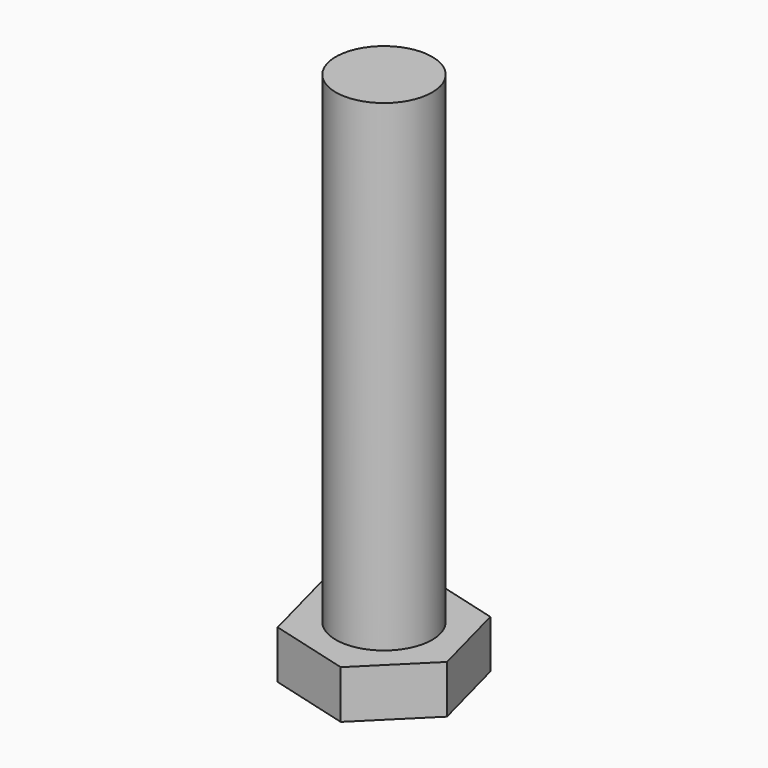
from build123d import *

# Parameters (mm, degrees)
F0_R     = 10
F1_DEPTH = 110
F2_R     = 10
F3_DEPTH = 10


with BuildPart() as f1:
    # F0 (on Top) → F1 (new body)
    with BuildSketch(Plane.XY):
        Circle(F0_R)
    extrude(amount=F1_DEPTH)

    # F2 (on face) → F3 (join)
    with BuildSketch(Plane(origin=(0, 0, 0), x_dir=(1, 0, 0), z_dir=(0, 0, -1))):
        Polygon((12.296169, -12.198533), (16.712325, 4.549528), (4.416155, 16.748062), (-12.296169, 12.198533), (-16.712325, -4.549528), (-4.416155, -16.748062), align=None)
        Circle(F2_R, mode=Mode.SUBTRACT)
        Polygon((12.296169, -12.198533), (16.712325, 4.549528), (4.416155, 16.748062), (-12.296169, 12.198533), (-16.712325, -4.549528), (-4.416155, -16.748062), align=None)
        Circle(F2_R, mode=Mode.SUBTRACT)
    extrude(amount=-F3_DEPTH)


solid = f1.part
